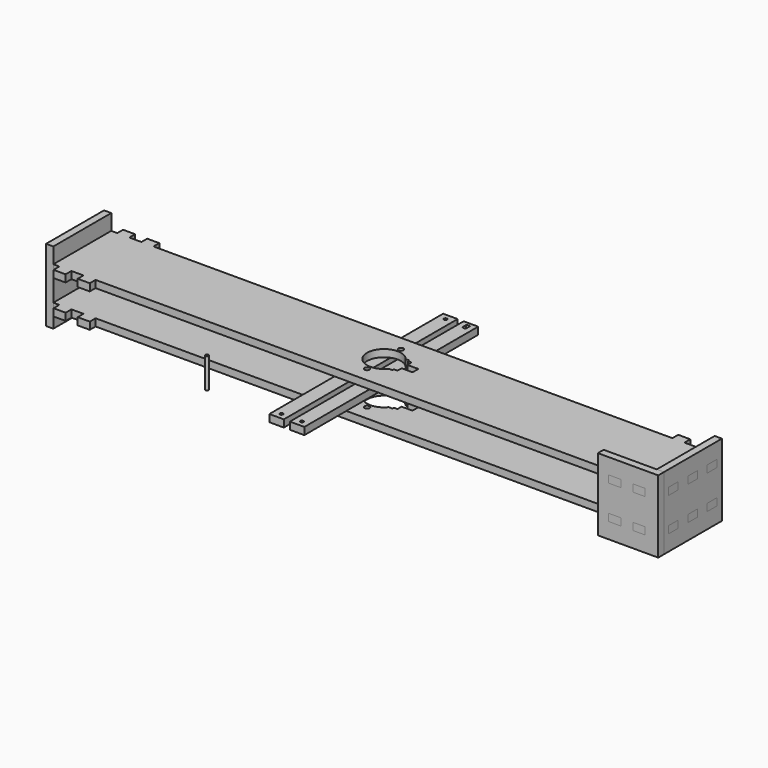
from build123d import *

# Parameters (mm, degrees)
F0_R      = 2.1
F1_DEPTH  = 6
F5_W      = 60
F5_H      = 60
F5_W_2    = 10
F5_H_2    = 6
F6_DEPTH  = 6
F9_W      = 50
F9_H      = 60
F9_W_2    = 10
F9_H_2    = 6
F10_DEPTH = 6
F11_W     = 12
F11_H     = 180
F11_R     = 1.3
F12_DEPTH = 6
F13_R     = 1.3
F14_DEPTH = 25


with BuildPart() as f1:
    # F0 (on Top) → F1 (new body)
    with BuildSketch(Plane.XY):
        Polygon((245, -30), (250, -30), (250, -25.3046643079), (256, -25.3046643079), (256, -15.3046643079), (250, -15.3046643079), (250, -5.3046643079), (256, -5.3046643079), (256, 4.6953356921), (250, 4.6953356921), (250, 14.6953356921), (256, 14.6953356921), (256, 24.6953356921), (250, 24.6953356921), (250, 30), (245, 30), (245, 36), (235, 36), (235, 30), (225, 30), (225, 36), (215, 36), (215, 30), (-215, 30), (-215, 36), (-225, 36), (-225, 30), (-235, 30), (-235, 36), (-245, 36), (-245, 30), (-250, 30), (-250, 24.6953356921), (-256, 24.6953356921), (-256, 14.6953356921), (-250, 14.6953356921), (-250, 4.6953356921), (-256, 4.6953356921), (-256, -5.3046643079), (-250, -5.3046643079), (-250, -15.3046643079), (-256, -15.3046643079), (-256, -25.3046643079), (-250, -25.3046643079), (-250, -30), (-245, -30), (-245, -36), (-235, -36), (-235, -30), (-225, -30), (-225, -36), (-215, -36), (-215, -30), (215, -30), (215, -36), (225, -36), (225, -30), (235, -30), (235, -36), (245, -36), align=None)
        with Locations((0, -17.5)):
            Circle(F0_R, mode=Mode.SUBTRACT)
        with BuildLine():
            Line((17, -7.3), (14, -7.3))
            Line((14, -7.3), (14, -8.75))
            Line((14, -8.75), (10.9287464972, -8.75))
            ThreePointArc((10.9287464972, -8.75), (-14, 0), (10.9287464972, 8.75))
            Line((10.9287464972, 8.75), (14, 8.75))
            Line((14, 8.75), (14, 7.3))
            Line((14, 7.3), (17, 7.3))
            Line((17, 7.3), (17, 3))
            Line((17, 3), (26.0050483048, 3))
            Line((26.0050483048, 3), (26.0050483048, -3))
            Line((26.0050483048, -3), (17, -3))
            Line((17, -3), (17, -7.3))
        make_face(mode=Mode.SUBTRACT)
        with Locations((0, 17.5)):
            Circle(F0_R, mode=Mode.SUBTRACT)
    extrude(amount=F1_DEPTH)


with BuildPart() as f3_1:
    # F3: instance of F1
    add(f1.part.mirror(Plane.XY.offset(17)))


with BuildPart() as f6:
    # F5 (on offset) → F6 (new body)
    with BuildSketch(Plane.YZ.offset(256)):
        with Locations((0, 17)):
            Rectangle(F5_W, F5_H)
        with Locations((-20.3046643079, 3)):
            Rectangle(F5_W_2, F5_H_2, mode=Mode.SUBTRACT)
        with Locations((-0.3046643079, 3)):
            Rectangle(F5_W_2, F5_H_2, mode=Mode.SUBTRACT)
        with Locations((19.6953356921, 3)):
            Rectangle(F5_W_2, F5_H_2, mode=Mode.SUBTRACT)
        with Locations((-20.3046643079, 31)):
            Rectangle(F5_W_2, F5_H_2, mode=Mode.SUBTRACT)
        with Locations((-0.3046643079, 31)):
            Rectangle(F5_W_2, F5_H_2, mode=Mode.SUBTRACT)
        with Locations((19.6953356921, 31)):
            Rectangle(F5_W_2, F5_H_2, mode=Mode.SUBTRACT)
    extrude(amount=-F6_DEPTH)


with BuildPart() as f7_1:
    # F7: instance of F6
    add(f6.part.mirror(Plane.YZ))


with BuildPart() as f10:
    # F9 (on offset) → F10 (new body)
    with BuildSketch(Plane.XZ.offset(36)):
        with Locations((231, 17)):
            Rectangle(F9_W, F9_H)
        with Locations((220, 3)):
            Rectangle(F9_W_2, F9_H_2, mode=Mode.SUBTRACT)
        with Locations((240, 3)):
            Rectangle(F9_W_2, F9_H_2, mode=Mode.SUBTRACT)
        with Locations((220, 31)):
            Rectangle(F9_W_2, F9_H_2, mode=Mode.SUBTRACT)
        with Locations((240, 31)):
            Rectangle(F9_W_2, F9_H_2, mode=Mode.SUBTRACT)
    extrude(amount=-F10_DEPTH)


with BuildPart() as f12:
    # F11 (on offset) → F12 (new body)
    with BuildSketch(Plane.XY.offset(17)):
        with Locations((-17, 0)):
            Rectangle(F11_W, F11_H)
        with Locations((-17, -85)):
            Circle(F11_R, mode=Mode.SUBTRACT)
        with Locations((-17, 85)):
            Circle(F11_R, mode=Mode.SUBTRACT)
    extrude(amount=F12_DEPTH)


with BuildPart() as f12b:
    # F11 (on offset) → F12, piece 2 (new body)
    with BuildSketch(Plane.XY.offset(17)):
        Rectangle(F11_W, F11_H)
        with Locations((0, -85)):
            Circle(F11_R, mode=Mode.SUBTRACT)
        with BuildLine():
            Line((1.5, 87), (1.5, 83))
            ThreePointArc((1.5, 83), (0, 82.5), (-1.5, 83))
            Line((-1.5, 83), (-1.5, 87))
            ThreePointArc((-1.5, 87), (0, 87.5), (1.5, 87))
        make_face(mode=Mode.SUBTRACT)
    extrude(amount=F12_DEPTH)


with BuildPart() as f14:
    # F13 (on offset) → F14 (new body)
    with BuildSketch(Plane.XY.offset(17)):
        with Locations((-83.0565318465, -79.520329833)):
            Circle(F13_R)
    extrude(amount=F14_DEPTH)


solid = Compound([f1.part, f3_1.part, f6.part, f7_1.part, f10.part, f12.part, f12b.part, f14.part])
